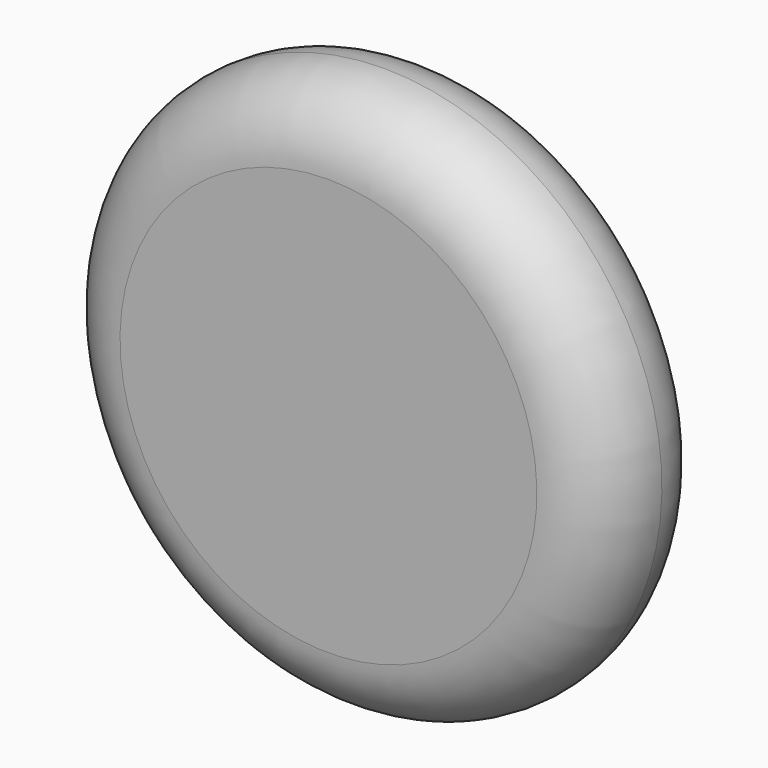
from build123d import *


with BuildPart() as f1:
    # F0 (on Right) → F1 (revolve)
    with BuildSketch(Plane.YZ):
        with BuildLine():
            Line((-12.7, 0), (0, 0))
            Line((0, 0), (0, 50.8))
            ThreePointArc((0, 50.8), (-8.980256, 47.080256), (-12.7, 38.1))
            Line((-12.7, 38.1), (-12.7, 0))
        make_face()
        with BuildLine():
            Line((0, 50.8), (0, 0))
            Line((0, 0), (12.7, 0))
            Line((12.7, 0), (12.7, 38.1))
            ThreePointArc((12.7, 38.1), (8.980256, 47.080256), (0, 50.8))
        make_face()
    revolve(axis=Axis((0, -14.760766, 0), (0, -1, 0)))


solid = f1.part
